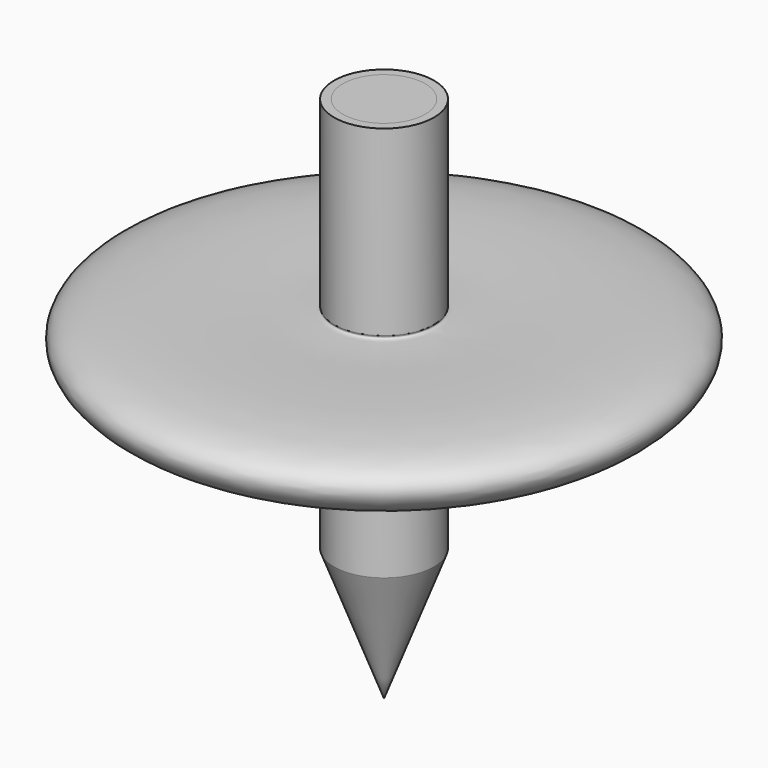
from build123d import *

# Parameters (mm, degrees)
F2_R     = 4.7625
F3_DEPTH = 9.525
F4_DEPTH = 9.525


with BuildPart() as f1:
    # F0 (on Front) → F1 (revolve)
    with BuildSketch(Plane.XZ):
        with BuildLine():
            Line((0, 60.96), (0, 0))
            Line((0, 0), (5.775011144, 15.2790336204))
            Line((5.775011144, 15.2790336204), (5.775011144, 28.840571844))
            add(Edge.make_bspline(
                [(5.775011144, 28.840571844), (16.2429383565, 30.2778020596), (30.7316191477, 32.2670755226), (30.9608048096, 41.3707360977), (4.9601585477, 38.5730215847), (5.6940646154, 39.7717218331), (5.775011144, 39.9039330631)],
                knots=[0, 0, 0, 0, 0.4041034384, 0.5593204468, 0.9513950332, 1, 1, 1, 1], degree=3))
            Line((5.775011144, 39.9039330631), (5.775011144, 60.96))
            Line((5.775011144, 60.96), (0, 60.96))
        make_face()
    revolve(axis=Axis((0, 0, 30.48), (0, 0, -1)))

    # F2 (on face) → F3 (cut)
    with BuildSketch(Plane.XY.offset(60.96)):
        Circle(F2_R)
    extrude(amount=-F3_DEPTH, mode=Mode.SUBTRACT)


with BuildPart() as f4:
    # F2 (on face) → F4 (new body)
    with BuildSketch(Plane.XY.offset(60.96)):
        Circle(F2_R)
    extrude(amount=-F4_DEPTH)


solid = Compound([f1.part, f4.part])
